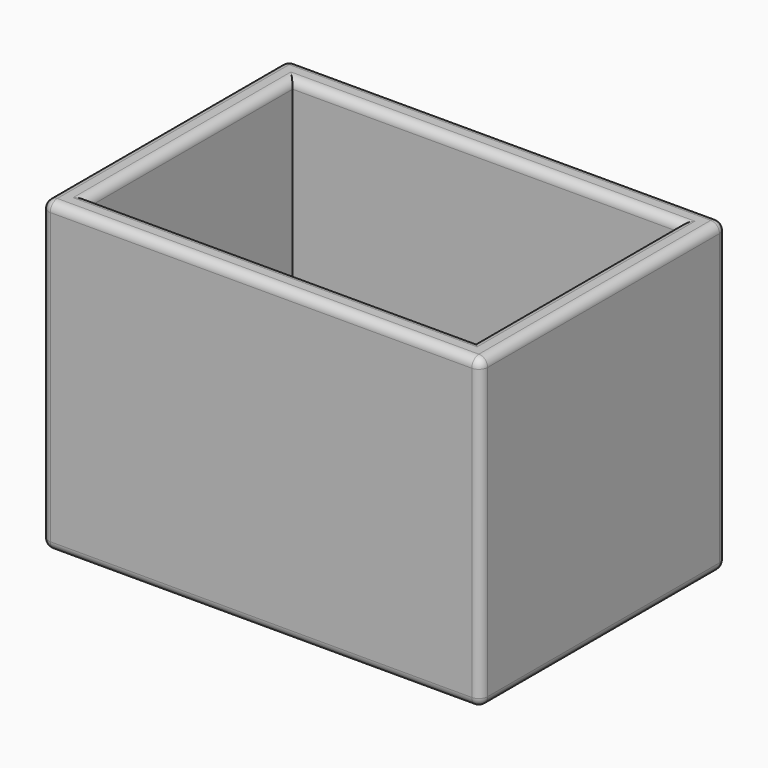
from build123d import *

# Parameters (mm, degrees)
F0_W     = 12.7
F0_H     = 8.89
F1_DEPTH = 8.89
F2_T     = -0.762
F3_R     = 0.254
F4_R     = 0.254


with BuildPart() as f1:
    # F0 (on Top) → F1 (new body)
    with BuildSketch(Plane.XY):
        with Locations((-41.3615499459, 30.1495660652)):
            Rectangle(F0_W, F0_H)
    extrude(amount=F1_DEPTH)

    # F2
    f2_openings = [f1.faces().sort_by_distance(p)[0] for p in [
        (-41.36155, 30.149566, 8.89),
    ]]
    offset(amount=F2_T, openings=f2_openings)

    # F3
    f3_edges = [f1.edges().sort_by_distance(p)[0] for p in [
        (-41.36155, 33.832566, 8.89),
        (-41.36155, 25.704566, 8.89),
        (-41.36155, 26.466566, 8.89),
        (-41.36155, 34.594566, 8.89),
        (-46.94955, 30.149566, 8.89),
        (-47.71155, 30.149566, 8.89),
        (-35.77355, 30.149566, 8.89),
        (-35.01155, 30.149566, 8.89),
        (-35.01155, 25.704566, 4.445),
        (-47.71155, 25.704566, 4.445),
        (-47.71155, 34.594566, 4.445),
        (-35.01155, 34.594566, 4.445),
        (-35.01155, 30.149566, 0),
        (-41.36155, 25.704566, 0),
        (-47.71155, 30.149566, 0),
        (-41.36155, 34.594566, 0),
    ]]
    fillet(f3_edges, radius=F3_R)

    # F4
    f4_edges = [f1.edges().sort_by_distance(p)[0] for p in [
        (-41.36155, 33.832566, 0.762),
        (-35.77355, 30.149566, 0.762),
        (-41.36155, 26.466566, 0.762),
        (-46.94955, 30.149566, 0.762),
    ]]
    fillet(f4_edges, radius=F4_R)


solid = f1.part
